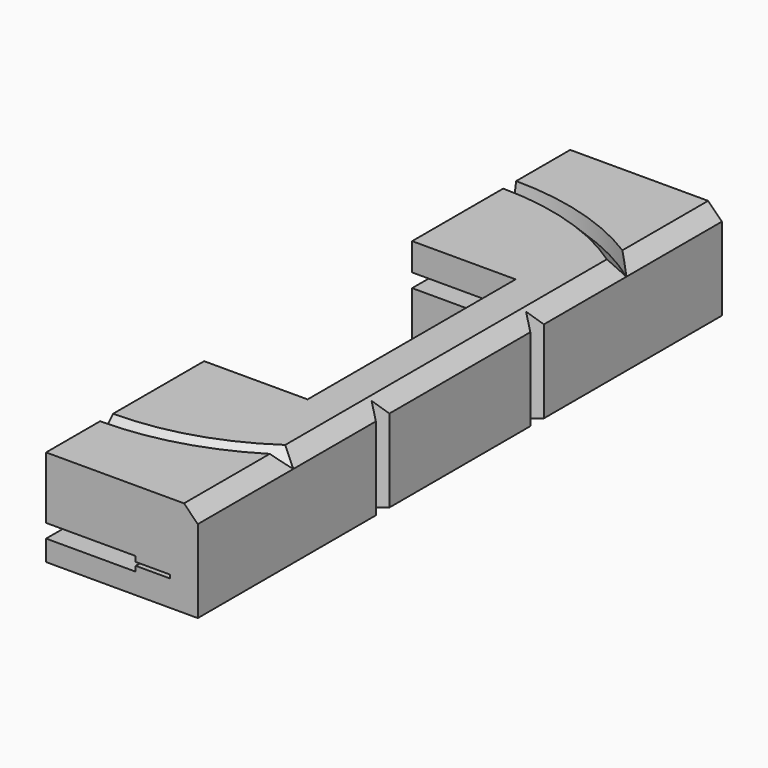
from build123d import *

# Parameters (mm, degrees)
PAD_DEPTH            = 5
PAD_DEPTH_BACK       = 9
POCKET_DEPTH         = 18
POCKET001_DEPTH      = 13
POCKET005_DEPTH      = 47.501
POCKET005_DEPTH_BACK = 47.501
POCKET006_DEPTH      = 9.001
POCKET006_DEPTH_BACK = 5.001


with BuildPart() as part:
    # Sketch001 → Pad (new body, two sides)
    with BuildSketch(Plane.XY) as pad_sk:
        Polygon((0, 18.85), (15, 18.85), (15, -18.85), (0, -18.85), (0, -47.5), (22, -47.5), (22, 47.5), (0, 47.5), align=None)
    extrude(amount=PAD_DEPTH)
    extrude(pad_sk.sketch, amount=-PAD_DEPTH_BACK)

    # Sketch003 → Revolution (revolve)
    with BuildSketch(Plane.XY):
        Polygon((-3, 44), (0, 45.5), (0, 43), (-3, 43), align=None)
    revolve(axis=Axis((0, 43, 0), (-1, 0, 0)))

    # Sketch004 → Groove (revolve, cut)
    with BuildSketch(Plane.XY):
        Polygon((5.3, -43), (0, -40.35), (0, -43), align=None)
    revolve(axis=Axis((0, -43, 0), (1, 0, 0)), mode=Mode.SUBTRACT)

    # ShapeBinder → Pocket (cut)
    with BuildSketch(Plane(origin=(0, 0, -2.5), x_dir=(0, -1, 0), z_dir=(1, 0, 0))):
        with BuildLine():
            ThreePointArc((-73.85, 2.75), (-74.1, 2.5), (-73.85, 2.25))
            Line((-73.85, 2.25), (-43.85, 2.25))
            add(Edge.make_bspline(
                [(-38.1447, 1.526513), (-38.790477, 1.713096), (-39.478659, 1.878476), (-40.217718, 2.018857), (-41.016133, 2.130311), (-41.882221, 2.20873), (-42.824147, 2.25), (-43.85, 2.25)],
                knots=[0.758623, 0.758623, 0.758623, 0.758623, 0.758623, 0.758623, 0.758623, 0.758623, 1, 1, 1, 1, 1, 1, 1, 1], degree=7))
            add(Edge.make_bspline(
                [(-33.961803, -0.223607), (-34.515995, 0.053489), (-35.067908, 0.329445), (-35.627428, 0.599322), (-36.204579, 0.858422), (-36.80955, 1.102345), (-37.452785, 1.3266), (-38.1447, 1.526513)],
                knots=[0.5, 0.5, 0.5, 0.5, 0.5, 0.5, 0.5, 0.5, 0.758623, 0.758623, 0.758623, 0.758623, 0.758623, 0.758623, 0.758623, 0.758623], degree=7))
            add(Edge.make_bspline(
                [(-29.694087, -2.006865), (-30.407096, -1.800857), (-31.069938, -1.569767), (-31.691967, -1.318807), (-32.282508, -1.053369), (-32.85114, -0.778939), (-33.407612, -0.500703), (-33.961803, -0.223607)],
                knots=[0.241377, 0.241377, 0.241377, 0.241377, 0.241377, 0.241377, 0.241377, 0.241377, 0.5, 0.5, 0.5, 0.5, 0.5, 0.5, 0.5, 0.5], degree=7))
            add(Edge.make_bspline(
                [(-23.85, -2.75), (-24.893094, -2.75), (-25.853649, -2.708037), (-26.73965, -2.628027), (-27.559002, -2.513891), (-28.319463, -2.369558), (-29.028624, -2.199136), (-29.694087, -2.006865)],
                knots=[0, 0, 0, 0, 0, 0, 0, 0, 0.241377, 0.241377, 0.241377, 0.241377, 0.241377, 0.241377, 0.241377, 0.241377], degree=7))
            Line((-23.85, -2.75), (23.85, -2.75))
            add(Edge.make_bspline(
                [(23.85, -2.75), (24.893094, -2.75), (25.853649, -2.708037), (26.73965, -2.628027), (27.559002, -2.513891), (28.319463, -2.369558), (29.028624, -2.199136), (29.694087, -2.006865)],
                knots=[0, 0, 0, 0, 0, 0, 0, 0, 0.241377, 0.241377, 0.241377, 0.241377, 0.241377, 0.241377, 0.241377, 0.241377], degree=7))
            add(Edge.make_bspline(
                [(29.694087, -2.006865), (30.407096, -1.800858), (31.069938, -1.569767), (31.691967, -1.318807), (32.282508, -1.053369), (32.85114, -0.778939), (33.407612, -0.500703), (33.961803, -0.223607)],
                knots=[0.241377, 0.241377, 0.241377, 0.241377, 0.241377, 0.241377, 0.241377, 0.241377, 0.5, 0.5, 0.5, 0.5, 0.5, 0.5, 0.5, 0.5], degree=7))
            add(Edge.make_bspline(
                [(33.961803, -0.223607), (34.515995, 0.053489), (35.067908, 0.329445), (35.627428, 0.599322), (36.204579, 0.858422), (36.80955, 1.102345), (37.452785, 1.3266), (38.1447, 1.526513)],
                knots=[0.5, 0.5, 0.5, 0.5, 0.5, 0.5, 0.5, 0.5, 0.758623, 0.758623, 0.758623, 0.758623, 0.758623, 0.758623, 0.758623, 0.758623], degree=7))
            add(Edge.make_bspline(
                [(38.1447, 1.526513), (38.790477, 1.713096), (39.478659, 1.878476), (40.217718, 2.018857), (41.016133, 2.130311), (41.882221, 2.20873), (42.824147, 2.25), (43.85, 2.25)],
                knots=[0.758623, 0.758623, 0.758623, 0.758623, 0.758623, 0.758623, 0.758623, 0.758623, 1, 1, 1, 1, 1, 1, 1, 1], degree=7))
            Line((43.85, 2.25), (73.85, 2.25))
            ThreePointArc((73.85, 2.25), (74.1, 2.5), (73.85, 2.75))
            Line((73.85, 2.75), (43.85, 2.75))
            add(Edge.make_bspline(
                [(38.005913, 2.006865), (38.671376, 2.199136), (39.380537, 2.369558), (40.140998, 2.513891), (40.96035, 2.628027), (41.846351, 2.708037), (42.806906, 2.75), (43.85, 2.75)],
                knots=[0.758623, 0.758623, 0.758623, 0.758623, 0.758623, 0.758623, 0.758623, 0.758623, 1, 1, 1, 1, 1, 1, 1, 1], degree=7))
            add(Edge.make_bspline(
                [(33.738197, 0.223607), (34.292388, 0.500703), (34.84886, 0.778939), (35.417492, 1.053369), (36.008033, 1.318807), (36.630062, 1.569767), (37.292904, 1.800858), (38.005913, 2.006865)],
                knots=[0.5, 0.5, 0.5, 0.5, 0.5, 0.5, 0.5, 0.5, 0.758623, 0.758623, 0.758623, 0.758623, 0.758623, 0.758623, 0.758623, 0.758623], degree=7))
            add(Edge.make_bspline(
                [(29.5553, -1.526513), (30.247215, -1.3266), (30.89045, -1.102345), (31.495421, -0.858422), (32.072572, -0.599322), (32.632092, -0.329445), (33.184005, -0.053489), (33.738197, 0.223607)],
                knots=[0.241377, 0.241377, 0.241377, 0.241377, 0.241377, 0.241377, 0.241377, 0.241377, 0.5, 0.5, 0.5, 0.5, 0.5, 0.5, 0.5, 0.5], degree=7))
            add(Edge.make_bspline(
                [(23.85, -2.25), (24.875853, -2.25), (25.817779, -2.20873), (26.683867, -2.130311), (27.482282, -2.018857), (28.221341, -1.878476), (28.909523, -1.713096), (29.5553, -1.526513)],
                knots=[0, 0, 0, 0, 0, 0, 0, 0, 0.241377, 0.241377, 0.241377, 0.241377, 0.241377, 0.241377, 0.241377, 0.241377], degree=7))
            Line((23.85, -2.25), (-23.85, -2.25))
            add(Edge.make_bspline(
                [(-23.85, -2.25), (-24.875853, -2.25), (-25.817779, -2.20873), (-26.683867, -2.130311), (-27.482282, -2.018857), (-28.221341, -1.878476), (-28.909523, -1.713096), (-29.5553, -1.526513)],
                knots=[0, 0, 0, 0, 0, 0, 0, 0, 0.241377, 0.241377, 0.241377, 0.241377, 0.241377, 0.241377, 0.241377, 0.241377], degree=7))
            add(Edge.make_bspline(
                [(-29.5553, -1.526513), (-30.247215, -1.3266), (-30.89045, -1.102345), (-31.495421, -0.858422), (-32.072572, -0.599322), (-32.632092, -0.329445), (-33.184005, -0.053489), (-33.738197, 0.223607)],
                knots=[0.241377, 0.241377, 0.241377, 0.241377, 0.241377, 0.241377, 0.241377, 0.241377, 0.5, 0.5, 0.5, 0.5, 0.5, 0.5, 0.5, 0.5], degree=7))
            add(Edge.make_bspline(
                [(-33.738197, 0.223607), (-34.292388, 0.500703), (-34.84886, 0.778939), (-35.417492, 1.053369), (-36.008033, 1.318807), (-36.630062, 1.569767), (-37.292904, 1.800858), (-38.005913, 2.006865)],
                knots=[0.5, 0.5, 0.5, 0.5, 0.5, 0.5, 0.5, 0.5, 0.758623, 0.758623, 0.758623, 0.758623, 0.758623, 0.758623, 0.758623, 0.758623], degree=7))
            add(Edge.make_bspline(
                [(-38.005913, 2.006865), (-38.671376, 2.199136), (-39.380537, 2.369558), (-40.140998, 2.513891), (-40.96035, 2.628027), (-41.846351, 2.708037), (-42.806906, 2.75), (-43.85, 2.75)],
                knots=[0.758623, 0.758623, 0.758623, 0.758623, 0.758623, 0.758623, 0.758623, 0.758623, 1, 1, 1, 1, 1, 1, 1, 1], degree=7))
            Line((-43.85, 2.75), (-73.85, 2.75))
        make_face()
    extrude(amount=POCKET_DEPTH, mode=Mode.SUBTRACT)

    # ShapeBinder001 → Pocket001 (cut)
    with BuildSketch(Plane(origin=(0, 0, -2.5), x_dir=(0, -1, 0), z_dir=(1, 0, 0))):
        with BuildLine():
            ThreePointArc((-73.85, 3.5), (-74.85, 2.5), (-73.85, 1.5))
            Line((-73.85, 1.5), (-43.85, 1.5))
            add(Edge.make_bspline(
                [(-38.352881, 0.805985), (-38.969127, 0.984036), (-39.625842, 1.141853), (-40.332797, 1.276307), (-41.099808, 1.383736), (-41.936026, 1.45977), (-42.850009, 1.5), (-43.85, 1.5)],
                knots=[0.758623, 0.758623, 0.758623, 0.758623, 0.758623, 0.758623, 0.758623, 0.758623, 1, 1, 1, 1, 1, 1, 1, 1], degree=7))
            add(Edge.make_bspline(
                [(-34.297214, -0.894427), (-34.782131, -0.651968), (-35.260213, -0.412928), (-35.737632, -0.180394), (-36.220873, 0.043053), (-36.716661, 0.255353), (-37.232239, 0.454714), (-37.775139, 0.63906), (-38.352881, 0.805985)],
                knots=[0.5, 0.5, 0.5, 0.5, 0.5, 0.5, 0.5, 0.5, 0.5, 0.758623, 0.758623, 0.758623, 0.758623, 0.758623, 0.758623, 0.758623, 0.758623, 0.758623], degree=8))
            add(Edge.make_bspline(
                [(-29.902268, -2.727394), (-30.553835, -2.539138), (-31.166108, -2.331235), (-31.743925, -2.107457), (-32.292107, -1.871907), (-32.815769, -1.62897), (-33.320541, -1.382764), (-33.812296, -1.136886), (-34.297214, -0.894427)],
                knots=[0.241377, 0.241377, 0.241377, 0.241377, 0.241377, 0.241377, 0.241377, 0.241377, 0.241377, 0.5, 0.5, 0.5, 0.5, 0.5, 0.5, 0.5, 0.5, 0.5], degree=8))
            add(Edge.make_bspline(
                [(-23.85, -3.5), (-24.918956, -3.5), (-25.907454, -3.456997), (-26.823325, -3.374602), (-27.674082, -3.256441), (-28.466646, -3.106181), (-29.207275, -2.928196), (-29.902268, -2.727394)],
                knots=[0, 0, 0, 0, 0, 0, 0, 0, 0.241377, 0.241377, 0.241377, 0.241377, 0.241377, 0.241377, 0.241377, 0.241377], degree=7))
            Line((-23.85, -3.5), (23.85, -3.5))
            add(Edge.make_bspline(
                [(23.85, -3.5), (24.918956, -3.5), (25.907454, -3.456997), (26.823325, -3.374602), (27.674082, -3.256441), (28.466646, -3.106181), (29.207275, -2.928196), (29.902268, -2.727394)],
                knots=[0, 0, 0, 0, 0, 0, 0, 0, 0.241377, 0.241377, 0.241377, 0.241377, 0.241377, 0.241377, 0.241377, 0.241377], degree=7))
            add(Edge.make_bspline(
                [(29.902268, -2.727394), (30.553835, -2.539138), (31.166108, -2.331235), (31.743925, -2.107457), (32.292107, -1.871907), (32.815769, -1.62897), (33.320541, -1.382764), (33.812296, -1.136886), (34.297214, -0.894427)],
                knots=[0.241377, 0.241377, 0.241377, 0.241377, 0.241377, 0.241377, 0.241377, 0.241377, 0.241377, 0.5, 0.5, 0.5, 0.5, 0.5, 0.5, 0.5, 0.5, 0.5], degree=8))
            add(Edge.make_bspline(
                [(34.297214, -0.894427), (34.782131, -0.651968), (35.260213, -0.412928), (35.737632, -0.180394), (36.220873, 0.043053), (36.716661, 0.255353), (37.232239, 0.454714), (37.775139, 0.63906), (38.352881, 0.805985)],
                knots=[0.5, 0.5, 0.5, 0.5, 0.5, 0.5, 0.5, 0.5, 0.5, 0.758623, 0.758623, 0.758623, 0.758623, 0.758623, 0.758623, 0.758623, 0.758623, 0.758623], degree=8))
            add(Edge.make_bspline(
                [(38.352881, 0.805985), (38.969127, 0.984036), (39.625842, 1.141853), (40.332797, 1.276307), (41.099808, 1.383736), (41.936026, 1.45977), (42.850009, 1.5), (43.85, 1.5)],
                knots=[0.758623, 0.758623, 0.758623, 0.758623, 0.758623, 0.758623, 0.758623, 0.758623, 1, 1, 1, 1, 1, 1, 1, 1], degree=7))
            Line((43.85, 1.5), (73.85, 1.5))
            ThreePointArc((73.85, 1.5), (74.85, 2.5), (73.85, 3.5))
            Line((73.85, 3.5), (43.85, 3.5))
            add(Edge.make_bspline(
                [(37.797732, 2.727394), (38.492725, 2.928196), (39.233354, 3.106181), (40.025918, 3.256441), (40.876675, 3.374602), (41.792546, 3.456997), (42.781044, 3.5), (43.85, 3.5)],
                knots=[0.758623, 0.758623, 0.758623, 0.758623, 0.758623, 0.758623, 0.758623, 0.758623, 1, 1, 1, 1, 1, 1, 1, 1], degree=7))
            add(Edge.make_bspline(
                [(33.402786, 0.894427), (33.887704, 1.136886), (34.379459, 1.382764), (34.884231, 1.62897), (35.407893, 1.871907), (35.956075, 2.107457), (36.533892, 2.331235), (37.146165, 2.539138), (37.797732, 2.727394)],
                knots=[0.5, 0.5, 0.5, 0.5, 0.5, 0.5, 0.5, 0.5, 0.5, 0.758623, 0.758623, 0.758623, 0.758623, 0.758623, 0.758623, 0.758623, 0.758623, 0.758623], degree=8))
            add(Edge.make_bspline(
                [(29.347119, -0.805985), (29.924861, -0.63906), (30.467761, -0.454714), (30.983339, -0.255353), (31.479127, -0.043053), (31.962368, 0.180394), (32.439787, 0.412928), (32.917869, 0.651968), (33.402786, 0.894427)],
                knots=[0.241377, 0.241377, 0.241377, 0.241377, 0.241377, 0.241377, 0.241377, 0.241377, 0.241377, 0.5, 0.5, 0.5, 0.5, 0.5, 0.5, 0.5, 0.5, 0.5], degree=8))
            add(Edge.make_bspline(
                [(23.85, -1.5), (24.849991, -1.5), (25.763974, -1.45977), (26.600192, -1.383736), (27.367203, -1.276307), (28.074158, -1.141853), (28.730873, -0.984036), (29.347119, -0.805985)],
                knots=[0, 0, 0, 0, 0, 0, 0, 0, 0.241377, 0.241377, 0.241377, 0.241377, 0.241377, 0.241377, 0.241377, 0.241377], degree=7))
            Line((23.85, -1.5), (-23.85, -1.5))
            add(Edge.make_bspline(
                [(-23.85, -1.5), (-24.849991, -1.5), (-25.763974, -1.45977), (-26.600192, -1.383736), (-27.367203, -1.276307), (-28.074158, -1.141853), (-28.730873, -0.984036), (-29.347119, -0.805985)],
                knots=[0, 0, 0, 0, 0, 0, 0, 0, 0.241377, 0.241377, 0.241377, 0.241377, 0.241377, 0.241377, 0.241377, 0.241377], degree=7))
            add(Edge.make_bspline(
                [(-29.347119, -0.805985), (-29.924861, -0.63906), (-30.467761, -0.454714), (-30.983339, -0.255353), (-31.479127, -0.043053), (-31.962368, 0.180394), (-32.439787, 0.412928), (-32.917869, 0.651968), (-33.402786, 0.894427)],
                knots=[0.241377, 0.241377, 0.241377, 0.241377, 0.241377, 0.241377, 0.241377, 0.241377, 0.241377, 0.5, 0.5, 0.5, 0.5, 0.5, 0.5, 0.5, 0.5, 0.5], degree=8))
            add(Edge.make_bspline(
                [(-33.402786, 0.894427), (-33.887704, 1.136886), (-34.379459, 1.382764), (-34.884231, 1.62897), (-35.407893, 1.871907), (-35.956075, 2.107457), (-36.533892, 2.331235), (-37.146165, 2.539138), (-37.797732, 2.727394)],
                knots=[0.5, 0.5, 0.5, 0.5, 0.5, 0.5, 0.5, 0.5, 0.5, 0.758623, 0.758623, 0.758623, 0.758623, 0.758623, 0.758623, 0.758623, 0.758623, 0.758623], degree=8))
            add(Edge.make_bspline(
                [(-37.797732, 2.727394), (-38.492725, 2.928196), (-39.233354, 3.106181), (-40.025918, 3.256441), (-40.876675, 3.374602), (-41.792546, 3.456997), (-42.781044, 3.5), (-43.85, 3.5)],
                knots=[0.758623, 0.758623, 0.758623, 0.758623, 0.758623, 0.758623, 0.758623, 0.758623, 1, 1, 1, 1, 1, 1, 1, 1], degree=7))
            Line((-43.85, 3.5), (-73.85, 3.5))
        make_face()
    extrude(amount=POCKET001_DEPTH, mode=Mode.SUBTRACT)

    # Sketch008 → Pocket005 (cut, two sides)
    with BuildSketch(Plane.XZ) as pocket005_sk:
        Polygon((20, 5), (22, 3), (22, 5), align=None)
    extrude(amount=-POCKET005_DEPTH, mode=Mode.SUBTRACT)
    extrude(pocket005_sk.sketch, amount=POCKET005_DEPTH_BACK, mode=Mode.SUBTRACT)

    # Sketch009 → Groove001 (revolve, cut)
    with BuildSketch(Plane.YZ):
        Polygon((37.702654, 5), (37.35, 3), (35.35, 5), align=None)
    revolve(axis=Axis((0, 0, 0), (0, 0, 1)), mode=Mode.SUBTRACT)

    # Sketch010 → Pocket006 (cut, two sides)
    with BuildSketch(Plane.XY) as pocket006_sk:
        Polygon((22, 15.227723), (20.4, 14), (22, 12.772277), align=None)
        Polygon((22, -12.772277), (20.4, -14), (22, -15.227723), align=None)
    extrude(amount=-POCKET006_DEPTH, mode=Mode.SUBTRACT)
    extrude(pocket006_sk.sketch, amount=POCKET006_DEPTH_BACK, mode=Mode.SUBTRACT)


solid = part.part
